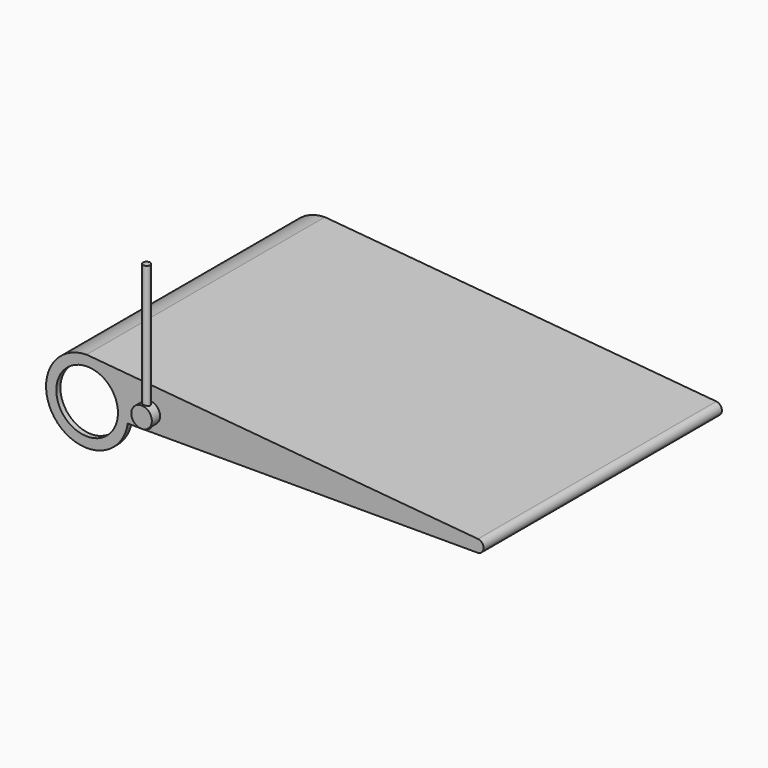
from build123d import *

# Parameters (mm, degrees)
F0_R     = 15
F1_DEPTH = 72.5
F2_W     = 140
F2_H     = 31.716244
F3_DEPTH = 70
F4_R     = 5
F5_DEPTH = 5
F6_R     = 1.75
F7_DEPTH = 70


with BuildPart() as f1:
    # F0 (on Front) → F1 (new body, symmetric)
    with BuildSketch(Plane.XZ):
        with BuildLine():
            Line((190.266781, 2.988114), (-0.258226, 19.998333))
            ThreePointArc((-0.258226, 19.998333), (-15.080984, -13.136359), (19.773847, -2.999164))
            Line((19.773847, -2.999164), (189.92918, -2.999164))
            Line((189.92918, -2.999164), (190.07082, -2.999164))
            ThreePointArc((190.07082, -2.999164), (192.998394, -0.098136), (190.266781, 2.988114))
        make_face()
        Circle(F0_R, mode=Mode.SUBTRACT)
    extrude(amount=F1_DEPTH, both=True)

    # F2 (on Right) → F3 (cut, symmetric)
    with BuildSketch(Plane.YZ):
        with Locations((0, -5.858122)):
            Rectangle(F2_W, F2_H)
    extrude(amount=F3_DEPTH, both=True, mode=Mode.SUBTRACT)

    # F4 (on face) → F5 (join)
    with BuildSketch(Plane.XZ.offset(72.5)):
        with Locations((30.506512, 5.24428)):
            Circle(F4_R)
    extrude(amount=F5_DEPTH)

    # F6 (on Top) → F7 (join)
    with BuildSketch(Plane.XY):
        with Locations((30.820567, -74.847832)):
            Circle(F6_R)
    extrude(amount=F7_DEPTH)


solid = f1.part
